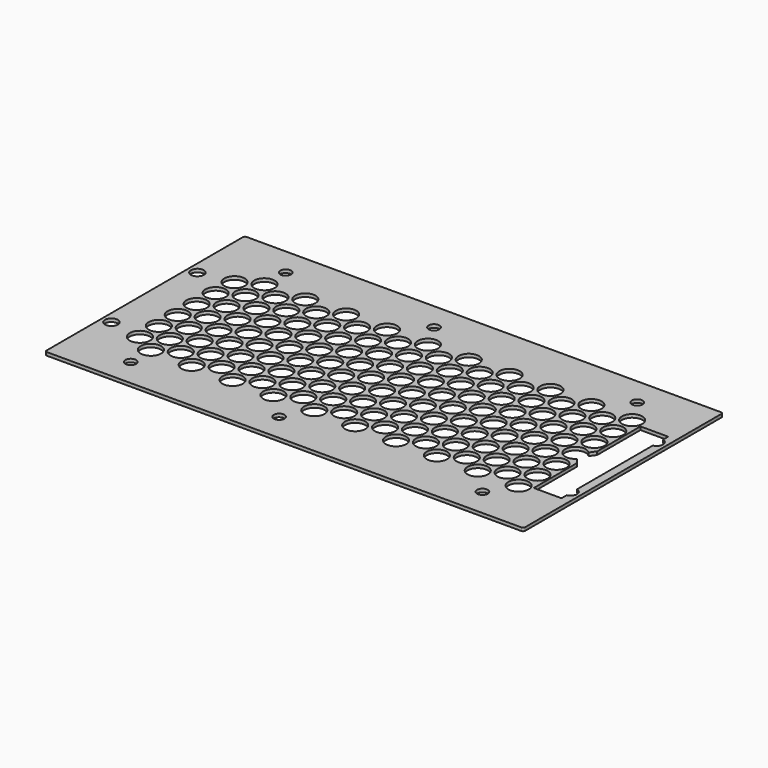
from build123d import *

# Parameters (mm, degrees)
SKETCH016_W     = 445
SKETCH016_H     = 232
PAD006_DEPTH    = 3
SKETCH017_R     = 9.5
POCKET010_DEPTH = 5
FILLET006_R     = 2
POCKET011_DEPTH = 10.001
SKETCH054_R     = 6
SKETCH054_R_2   = 5
POCKET035_DEPTH = 5


with BuildPart() as part:
    # Sketch016 → Pad006 (new body)
    with BuildSketch(Plane.XY):
        Rectangle(SKETCH016_W, SKETCH016_H)
    extrude(amount=PAD006_DEPTH)

    # Sketch017 (on Face6 of Pad006) → Pocket010 (cut)
    with BuildSketch(Plane.XY.offset(3)):
        with Locations((-183, 55)):
            Circle(SKETCH017_R)
        with Locations((-183, 33)):
            Circle(SKETCH017_R)
        with Locations((-183, 11)):
            Circle(SKETCH017_R)
        with Locations((-183, -11)):
            Circle(SKETCH017_R)
        with Locations((-183, -33)):
            Circle(SKETCH017_R)
        with Locations((-183, -55)):
            Circle(SKETCH017_R)
        with Locations((-164, 44)):
            Circle(SKETCH017_R)
        with Locations((-164, 22)):
            Circle(SKETCH017_R)
        with Locations((-164, 0)):
            Circle(SKETCH017_R)
        with Locations((-164, -22)):
            Circle(SKETCH017_R)
        with Locations((-164, -44)):
            Circle(SKETCH017_R)
        with Locations((-145, 55)):
            Circle(SKETCH017_R)
        with Locations((-145, 33)):
            Circle(SKETCH017_R)
        with Locations((-145, 11)):
            Circle(SKETCH017_R)
        with Locations((-145, -11)):
            Circle(SKETCH017_R)
        with Locations((-145, -33)):
            Circle(SKETCH017_R)
        with Locations((-145, -55)):
            Circle(SKETCH017_R)
        with Locations((-126, 44)):
            Circle(SKETCH017_R)
        with Locations((-126, 22)):
            Circle(SKETCH017_R)
        with Locations((-126, 0)):
            Circle(SKETCH017_R)
        with Locations((-126, -22)):
            Circle(SKETCH017_R)
        with Locations((-126, -44)):
            Circle(SKETCH017_R)
        with Locations((-107, 55)):
            Circle(SKETCH017_R)
        with Locations((-107, 33)):
            Circle(SKETCH017_R)
        with Locations((-107, 11)):
            Circle(SKETCH017_R)
        with Locations((-107, -11)):
            Circle(SKETCH017_R)
        with Locations((-107, -33)):
            Circle(SKETCH017_R)
        with Locations((-107, -55)):
            Circle(SKETCH017_R)
        with Locations((-88, -44)):
            Circle(SKETCH017_R)
        with Locations((-88, -22)):
            Circle(SKETCH017_R)
        with Locations((-88, 0)):
            Circle(SKETCH017_R)
        with Locations((-88, 22)):
            Circle(SKETCH017_R)
        with Locations((-88, 44)):
            Circle(SKETCH017_R)
        with Locations((-69, 55)):
            Circle(SKETCH017_R)
        with Locations((-69, 33)):
            Circle(SKETCH017_R)
        with Locations((-69, 11)):
            Circle(SKETCH017_R)
        with Locations((-69, -11)):
            Circle(SKETCH017_R)
        with Locations((-69, -33)):
            Circle(SKETCH017_R)
        with Locations((-50, 44)):
            Circle(SKETCH017_R)
        with Locations((-50, 22)):
            Circle(SKETCH017_R)
        with Locations((-50, 0)):
            Circle(SKETCH017_R)
        with Locations((-50, -22)):
            Circle(SKETCH017_R)
        with Locations((-50, -44)):
            Circle(SKETCH017_R)
        with Locations((-69, -55)):
            Circle(SKETCH017_R)
        with Locations((-31, 55)):
            Circle(SKETCH017_R)
        with Locations((-31, 33)):
            Circle(SKETCH017_R)
        with Locations((-31, 11)):
            Circle(SKETCH017_R)
        with Locations((-31, -11)):
            Circle(SKETCH017_R)
        with Locations((-31, -33)):
            Circle(SKETCH017_R)
        with Locations((-31, -55)):
            Circle(SKETCH017_R)
        with Locations((-12, -44)):
            Circle(SKETCH017_R)
        with Locations((-12, -22)):
            Circle(SKETCH017_R)
        with Locations((-12, 0)):
            Circle(SKETCH017_R)
        with Locations((-12, 22)):
            Circle(SKETCH017_R)
        with Locations((-12, 44)):
            Circle(SKETCH017_R)
        with Locations((7, 55)):
            Circle(SKETCH017_R)
        with Locations((7, 33)):
            Circle(SKETCH017_R)
        with Locations((7, 11)):
            Circle(SKETCH017_R)
        with Locations((7, -11)):
            Circle(SKETCH017_R)
        with Locations((7, -33)):
            Circle(SKETCH017_R)
        with Locations((7, -55)):
            Circle(SKETCH017_R)
        with Locations((26, -44)):
            Circle(SKETCH017_R)
        with Locations((26, -22)):
            Circle(SKETCH017_R)
        with Locations((26, 0)):
            Circle(SKETCH017_R)
        with Locations((26, 22)):
            Circle(SKETCH017_R)
        with Locations((26, 44)):
            Circle(SKETCH017_R)
        with Locations((45, 55)):
            Circle(SKETCH017_R)
        with Locations((45, 33)):
            Circle(SKETCH017_R)
        with Locations((45, 11)):
            Circle(SKETCH017_R)
        with Locations((45, -11)):
            Circle(SKETCH017_R)
        with Locations((64, 0)):
            Circle(SKETCH017_R)
        with Locations((64, 22)):
            Circle(SKETCH017_R)
        with Locations((64, 44)):
            Circle(SKETCH017_R)
        with Locations((45, -33)):
            Circle(SKETCH017_R)
        with Locations((45, -55)):
            Circle(SKETCH017_R)
        with Locations((64, -44)):
            Circle(SKETCH017_R)
        with Locations((64, -22)):
            Circle(SKETCH017_R)
        with Locations((83, 55)):
            Circle(SKETCH017_R)
        with Locations((83, 33)):
            Circle(SKETCH017_R)
        with Locations((83, 11)):
            Circle(SKETCH017_R)
        with Locations((83, -11)):
            Circle(SKETCH017_R)
        with Locations((83, -33)):
            Circle(SKETCH017_R)
        with Locations((83, -55)):
            Circle(SKETCH017_R)
        with Locations((102, 44)):
            Circle(SKETCH017_R)
        with Locations((102, 22)):
            Circle(SKETCH017_R)
        with Locations((102, 0)):
            Circle(SKETCH017_R)
        with Locations((102, -22)):
            Circle(SKETCH017_R)
        with Locations((102, -44)):
            Circle(SKETCH017_R)
        with Locations((121, 55)):
            Circle(SKETCH017_R)
        with Locations((121, 33)):
            Circle(SKETCH017_R)
        with Locations((121, 11)):
            Circle(SKETCH017_R)
        with Locations((121, -11)):
            Circle(SKETCH017_R)
        with Locations((121, -33)):
            Circle(SKETCH017_R)
        with Locations((121, -55)):
            Circle(SKETCH017_R)
        with Locations((140, 44)):
            Circle(SKETCH017_R)
        with Locations((140, 22)):
            Circle(SKETCH017_R)
        with Locations((140, 0)):
            Circle(SKETCH017_R)
        with Locations((140, -22)):
            Circle(SKETCH017_R)
        with Locations((140, -44)):
            Circle(SKETCH017_R)
        with Locations((159, 55)):
            Circle(SKETCH017_R)
        with Locations((159, 33)):
            Circle(SKETCH017_R)
        with Locations((159, 11)):
            Circle(SKETCH017_R)
        with Locations((159, -11)):
            Circle(SKETCH017_R)
        with Locations((159, -33)):
            Circle(SKETCH017_R)
        with Locations((159, -55)):
            Circle(SKETCH017_R)
        with Locations((-164, 66)):
            Circle(SKETCH017_R)
        with Locations((-126, 66)):
            Circle(SKETCH017_R)
        with Locations((-88, 66)):
            Circle(SKETCH017_R)
        with Locations((-50, 66)):
            Circle(SKETCH017_R)
        with Locations((-12, 66)):
            Circle(SKETCH017_R)
        with Locations((26, 66)):
            Circle(SKETCH017_R)
        with Locations((64, 66)):
            Circle(SKETCH017_R)
        with Locations((102, 66)):
            Circle(SKETCH017_R)
        with Locations((140, 66)):
            Circle(SKETCH017_R)
        with Locations((-164, -66)):
            Circle(SKETCH017_R)
        with Locations((-126, -66)):
            Circle(SKETCH017_R)
        with Locations((-88, -66)):
            Circle(SKETCH017_R)
        with Locations((-50, -66)):
            Circle(SKETCH017_R)
        with Locations((-12, -66)):
            Circle(SKETCH017_R)
        with Locations((26, -66)):
            Circle(SKETCH017_R)
        with Locations((64, -66)):
            Circle(SKETCH017_R)
        with Locations((102, -66)):
            Circle(SKETCH017_R)
        with Locations((140, -66)):
            Circle(SKETCH017_R)
        with Locations((178, 66)):
            Circle(SKETCH017_R)
        with Locations((178, 44)):
            Circle(SKETCH017_R)
        with Locations((178, 22)):
            Circle(SKETCH017_R)
        with Locations((178, 0)):
            Circle(SKETCH017_R)
        with Locations((178, -22)):
            Circle(SKETCH017_R)
        with Locations((178, -44)):
            Circle(SKETCH017_R)
        with Locations((178, -66)):
            Circle(SKETCH017_R)
    extrude(amount=-POCKET010_DEPTH, mode=Mode.SUBTRACT)

    # Fillet006
    fillet006_edges = [part.edges().sort_by_distance(p)[0] for p in [
        (-222.5, -116, 1.5),
        (222.5, -116, 1.5),
        (222.5, 116, 1.5),
        (-222.5, 116, 1.5),
    ]]
    fillet(fillet006_edges, radius=FILLET006_R)

    # Sketch018 → Pocket011 (cut, through all)
    with BuildSketch(Plane.XY.offset(10)):
        Polygon((188.873749, -62), (214.664444, -62), (214.664444, 62), (188.873749, 62), (188.873749, 11.724954), (183.462372, 4.250606), (183.462372, -4.752587), (188.873749, -11.972128), align=None)
    extrude(amount=-POCKET011_DEPTH, mode=Mode.SUBTRACT)

    # Sketch054 (on Face2 of Pocket011) → Pocket035 (cut)
    with BuildSketch(Plane(origin=(0, 0, 0), x_dir=(1, 0, 0), z_dir=(0, 0, -1))):
        with Locations((213.5, 50)):
            Circle(SKETCH054_R)
        with Locations((213.5, -50)):
            Circle(SKETCH054_R)
        with Locations((-213.5, 50)):
            Circle(SKETCH054_R)
        with Locations((-213.5, -50)):
            Circle(SKETCH054_R)
        with Locations((-163.5, 90)):
            Circle(SKETCH054_R_2)
        with Locations((-25.5, 90)):
            Circle(SKETCH054_R_2)
        with Locations((163.5, 90)):
            Circle(SKETCH054_R_2)
        with Locations((163.5, -90)):
            Circle(SKETCH054_R_2)
        with Locations((-25.5, -90)):
            Circle(SKETCH054_R_2)
        with Locations((-163.5, -90)):
            Circle(SKETCH054_R_2)
    extrude(amount=-POCKET035_DEPTH, mode=Mode.SUBTRACT)


with BuildPart() as part_1:
    # Body006 placement: moved
    add(part.part.moved(Location((0, 0, -3))))


solid = part_1.part
